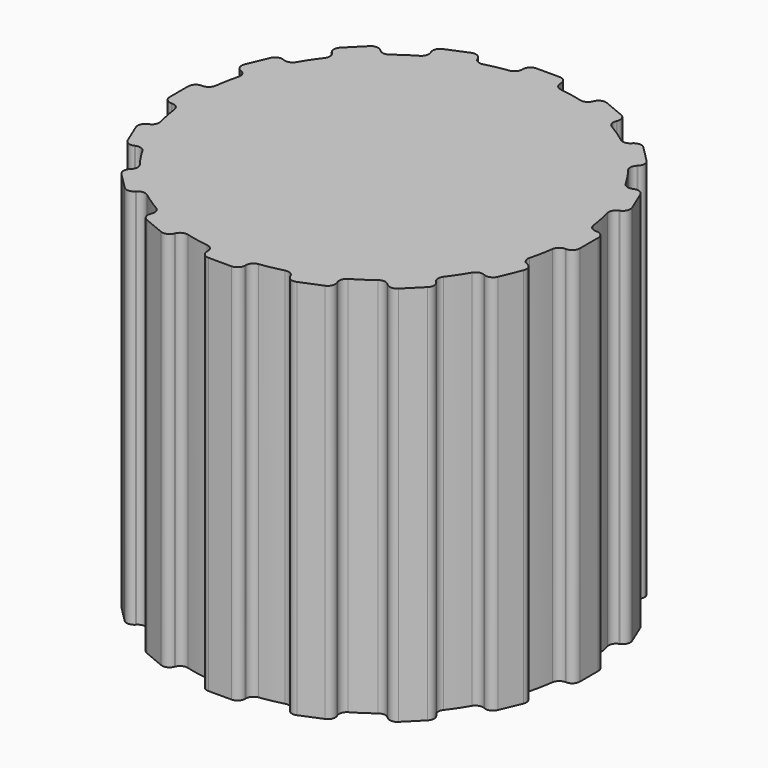
from build123d import *

# Parameters (mm, degrees)
F0_R     = 6.35
F1_DEPTH = 12.7
F2_W     = 1.27
F2_H     = 0.508
F2_W_2   = 0.508
F2_H_2   = 1.27
F3_DEPTH = 12.7
F4_R     = 0.254
F6_DEPTH = 10.16
F7_R     = 3.302
F8_DEPTH = 3.175


with BuildPart() as f1:
    # F0 (on Top) → F1 (new body)
    with BuildSketch(Plane.XY):
        Circle(F0_R)
    extrude(amount=F1_DEPTH)

    # F2 (on Top) → F3 (join, through all)
    with BuildSketch(Plane.XY):
        with Locations((0, 6.57217)):
            Rectangle(F2_W, F2_H)
        Polygon((-2.025599, 6.549563), (-3.198926, 6.063555), (-3.004523, 5.594224), (-1.831196, 6.080232), align=None)
        Polygon((-4.377818, 5.275844), (-5.275844, 4.377818), (-4.916634, 4.018608), (-4.018608, 4.916634), align=None)
        Polygon((-6.063555, 3.198926), (-6.549563, 2.025599), (-6.080232, 1.831196), (-5.594224, 3.004523), align=None)
        with Locations((-6.57217, 0)):
            Rectangle(F2_W_2, F2_H_2)
        Polygon((-6.549563, -2.025599), (-6.063555, -3.198926), (-5.594224, -3.004523), (-6.080232, -1.831196), align=None)
        Polygon((-5.275844, -4.377818), (-4.377818, -5.275844), (-4.018608, -4.916634), (-4.916634, -4.018608), align=None)
        Polygon((-3.198926, -6.063555), (-2.025599, -6.549563), (-1.831196, -6.080232), (-3.004523, -5.594224), align=None)
        with Locations((0, -6.57217)):
            Rectangle(F2_W, F2_H)
        Polygon((2.025599, -6.549563), (3.198926, -6.063555), (3.004523, -5.594224), (1.831196, -6.080232), align=None)
        Polygon((4.377818, -5.275844), (5.275844, -4.377818), (4.916634, -4.018608), (4.018608, -4.916634), align=None)
        Polygon((6.063555, -3.198926), (6.549563, -2.025599), (6.080232, -1.831196), (5.594224, -3.004523), align=None)
        with Locations((6.57217, 0)):
            Rectangle(F2_W_2, F2_H_2)
        Polygon((6.549563, 2.025599), (6.063555, 3.198926), (5.594224, 3.004523), (6.080232, 1.831196), align=None)
        Polygon((5.275844, 4.377818), (4.377818, 5.275844), (4.018608, 4.916634), (4.916634, 4.018608), align=None)
        Polygon((3.198926, 6.063555), (2.025599, 6.549563), (1.831196, 6.080232), (3.004523, 5.594224), align=None)
    extrude(amount=F3_DEPTH)

    # F4
    f4_edges = [f1.edges().sort_by_distance(p)[0] for p in [
        (0.635, 6.82617, 6.35),
        (-0.635, 6.82617, 6.35),
        (0.635, 6.31817, 6.35),
        (-0.635, 6.31817, 6.35),
        (1.831196, 6.080232, 6.35),
        (2.025599, 6.549563, 6.35),
        (3.198926, 6.063555, 6.35),
        (3.004523, 5.594224, 6.35),
        (4.377818, 5.275844, 6.35),
        (5.275844, 4.377818, 6.35),
        (4.018608, 4.916634, 6.35),
        (4.916634, 4.018608, 6.35),
        (5.594224, 3.004523, 6.35),
        (6.063555, 3.198926, 6.35),
        (6.549563, 2.025599, 6.35),
        (6.080232, 1.831196, 6.35),
        (6.82617, 0.635, 6.35),
        (6.31817, 0.635, 6.35),
        (6.82617, -0.635, 6.35),
        (6.31817, -0.635, 6.35),
        (6.549563, -2.025599, 6.35),
        (6.080232, -1.831196, 6.35),
        (6.063555, -3.198926, 6.35),
        (5.275844, -4.377818, 6.35),
        (5.594224, -3.004523, 6.35),
        (4.916634, -4.018608, 6.35),
        (4.377818, -5.275844, 6.35),
        (4.018608, -4.916634, 6.35),
        (3.004523, -5.594224, 6.35),
        (3.198926, -6.063555, 6.35),
        (0.635, -6.31817, 6.35),
        (0.635, -6.82617, 6.35),
        (1.831196, -6.080232, 6.35),
        (2.025599, -6.549563, 6.35),
        (-0.635, -6.82617, 6.35),
        (-0.635, -6.31817, 6.35),
        (-1.831196, -6.080232, 6.35),
        (-2.025599, -6.549563, 6.35),
        (-3.198926, -6.063555, 6.35),
        (-3.004523, -5.594224, 6.35),
        (-4.018608, -4.916634, 6.35),
        (-4.377818, -5.275844, 6.35),
        (-5.594224, -3.004523, 6.35),
        (-6.063555, -3.198926, 6.35),
        (-5.275844, -4.377818, 6.35),
        (-4.916634, -4.018608, 6.35),
        (-6.080232, -1.831196, 6.35),
        (-6.549563, -2.025599, 6.35),
        (-6.31817, -0.635, 6.35),
        (-6.82617, -0.635, 6.35),
        (-6.82617, 0.635, 6.35),
        (-6.31817, 0.635, 6.35),
        (-6.080232, 1.831196, 6.35),
        (-6.549563, 2.025599, 6.35),
        (-6.063555, 3.198926, 6.35),
        (-5.594224, 3.004523, 6.35),
        (-4.377818, 5.275844, 6.35),
        (-4.018608, 4.916634, 6.35),
        (-4.916634, 4.018608, 6.35),
        (-5.275844, 4.377818, 6.35),
        (-1.831196, 6.080232, 6.35),
        (-2.025599, 6.549563, 6.35),
        (-3.004523, 5.594224, 6.35),
        (-3.198926, 6.063555, 6.35),
    ]]
    fillet(f4_edges, radius=F4_R)

    # F5 (on Top) → F6 (cut)
    with BuildSketch(Plane.XY):
        with BuildLine():
            Line((2.254026, 2.413), (-2.254026, 2.413))
            ThreePointArc((-2.254026, 2.413), (0, -3.302), (2.254026, 2.413))
        make_face()
    extrude(amount=F6_DEPTH, mode=Mode.SUBTRACT)

    # F7 (on Top) → F8 (cut)
    with BuildSketch(Plane.XY):
        Circle(F7_R)
    extrude(amount=F8_DEPTH, mode=Mode.SUBTRACT)


solid = f1.part
